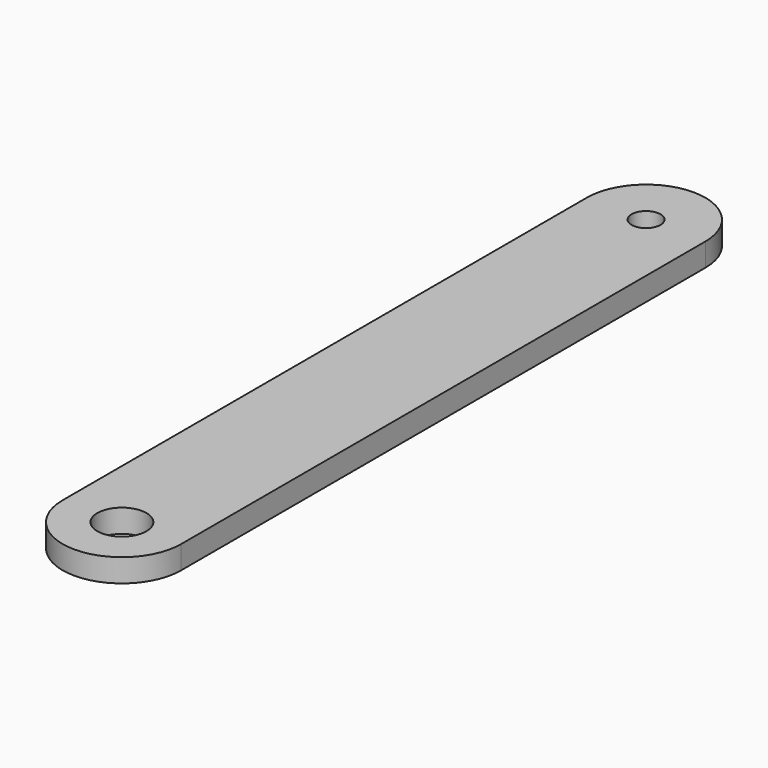
from build123d import *

# Parameters (mm, degrees)
SKETCH_R   = 2.5
SKETCH_R_2 = 4.25
PAD_DEPTH  = 4


with BuildPart() as part:
    # Sketch → Pad (new body)
    with BuildSketch(Plane.XY):
        with BuildLine():
            ThreePointArc((10.25, 57.5), (0, 67.75), (-10.25, 57.5))
            Line((-10.25, 57.5), (-10.25, -55.75))
            ThreePointArc((-10.25, -55.75), (0, -66), (10.25, -55.75))
            Line((10.25, 57.5), (10.25, -55.75))
        make_face()
        with Locations((0, 57.5)):
            Circle(SKETCH_R, mode=Mode.SUBTRACT)
        with Locations((0, -55.75)):
            Circle(SKETCH_R_2, mode=Mode.SUBTRACT)
    extrude(amount=PAD_DEPTH)


solid = part.part
